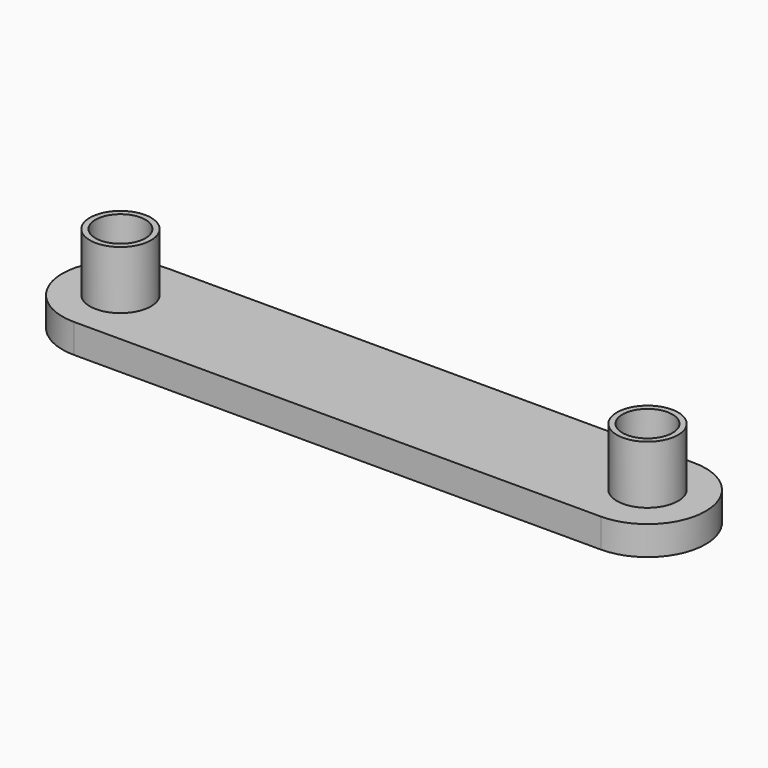
from build123d import *

# Parameters (mm, degrees)
F0_R     = 3.3401
F0_R_2   = 2.7305
F1_DEPTH = 6.35
F3_DEPTH = 3.175


with BuildPart() as f1:
    # F0 (on Top) → F1 (new body)
    with BuildSketch(Plane.XY):
        with Locations((-28.7655, 0)):
            Circle(F0_R)
        with Locations((-28.7655, 0)):
            Circle(F0_R_2, mode=Mode.SUBTRACT)
        with Locations((28.7655, 0)):
            Circle(F0_R)
        with Locations((28.7655, 0)):
            Circle(F0_R_2, mode=Mode.SUBTRACT)
    extrude(amount=F1_DEPTH)


with BuildPart() as f3:
    # F2 (on Top) → F3 (new body)
    with BuildSketch(Plane.XY):
        with BuildLine():
            Line((28.7655, 6.35), (-28.7655, 6.35))
            ThreePointArc((-28.7655, 6.35), (-35.1155, 0), (-28.7655, -6.35))
            Line((-28.7655, -6.35), (28.7655, -6.35))
            ThreePointArc((28.7655, -6.35), (35.1155, 0), (28.7655, 6.35))
        make_face()
        with BuildLine():
            Line((28.7655, 6.35), (-28.7655, 6.35))
            ThreePointArc((-28.7655, 6.35), (-35.1155, 0), (-28.7655, -6.35))
            Line((-28.7655, -6.35), (28.7655, -6.35))
            ThreePointArc((28.7655, -6.35), (35.1155, 0), (28.7655, 6.35))
        make_face()
        with BuildLine():
            Line((28.7655, 6.35), (-28.7655, 6.35))
            ThreePointArc((-28.7655, 6.35), (-35.1155, 0), (-28.7655, -6.35))
            Line((-28.7655, -6.35), (28.7655, -6.35))
            ThreePointArc((28.7655, -6.35), (35.1155, 0), (28.7655, 6.35))
        make_face()
        with BuildLine():
            Line((28.7655, 6.35), (-28.7655, 6.35))
            ThreePointArc((-28.7655, 6.35), (-35.1155, 0), (-28.7655, -6.35))
            Line((-28.7655, -6.35), (28.7655, -6.35))
            ThreePointArc((28.7655, -6.35), (35.1155, 0), (28.7655, 6.35))
        make_face()
        with BuildLine():
            Line((28.7655, 6.35), (-28.7655, 6.35))
            ThreePointArc((-28.7655, 6.35), (-35.1155, 0), (-28.7655, -6.35))
            Line((-28.7655, -6.35), (28.7655, -6.35))
            ThreePointArc((28.7655, -6.35), (35.1155, 0), (28.7655, 6.35))
        make_face()
        with BuildLine():
            Line((28.7655, 6.35), (-28.7655, 6.35))
            ThreePointArc((-28.7655, 6.35), (-35.1155, 0), (-28.7655, -6.35))
            Line((-28.7655, -6.35), (28.7655, -6.35))
            ThreePointArc((28.7655, -6.35), (35.1155, 0), (28.7655, 6.35))
        make_face()
        with BuildLine():
            Line((28.7655, 6.35), (-28.7655, 6.35))
            ThreePointArc((-28.7655, 6.35), (-35.1155, 0), (-28.7655, -6.35))
            Line((-28.7655, -6.35), (28.7655, -6.35))
            ThreePointArc((28.7655, -6.35), (35.1155, 0), (28.7655, 6.35))
        make_face()
    extrude(amount=-F3_DEPTH)


solid = Compound([f1.part, f3.part])
